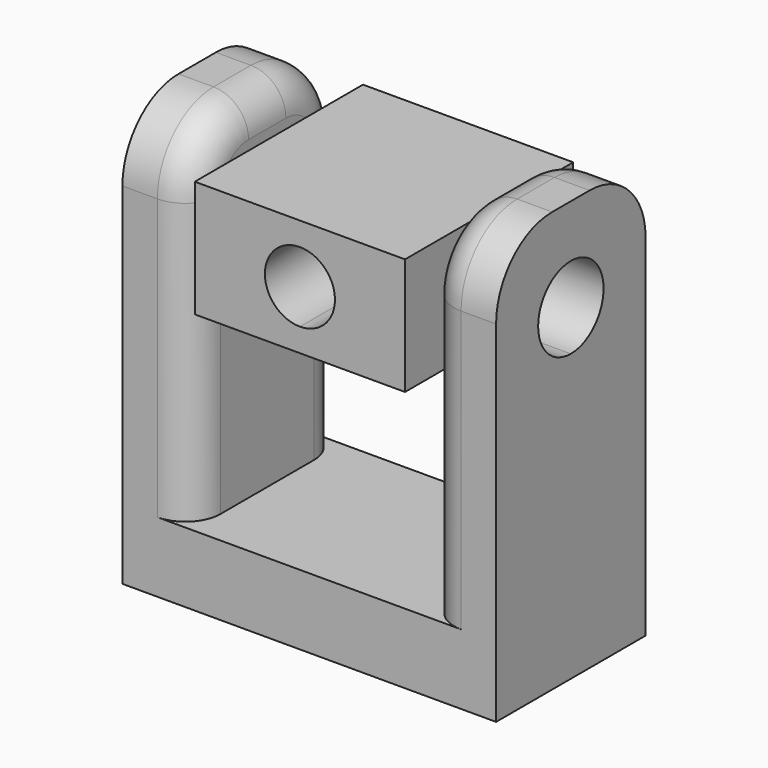
from build123d import *

# Parameters (mm, degrees)
F0_W      = 16
F0_H      = 4
F1_DEPTH  = 3
F2_W      = 3
F2_H      = 8
F3_DEPTH  = 15
F8_R      = 3
F7_W      = 9
F7_H      = 9
F9_DEPTH  = 2.5
F11_DEPTH = 9
F13_DEPTH = 9
F15_DEPTH = 16
F16_R     = 1.5


with BuildPart() as f1:
    # F0 (on Top) → F1 (new body)
    with BuildSketch(Plane.XY):
        with Locations((0, 2)):
            Rectangle(F0_W, F0_H)
        with Locations((0, -2)):
            Rectangle(F0_W, F0_H)
    extrude(amount=F1_DEPTH)

    # F2 (on face) → F3 (join)
    with BuildSketch(Plane.XY.offset(3)):
        Polygon((-5, 4), (-8, 4), (-8, -4), (-5, -4), (-5, 0), align=None)
        with Locations((6.5, 0)):
            Rectangle(F2_W, F2_H)
    extrude(amount=F3_DEPTH)

    # F8
    f8_edges = [f1.edges().sort_by_distance(p)[0] for p in [
        (-6.5, 4, 18),
        (-6.5, -4, 18),
        (6.5, -4, 18),
        (6.5, 4, 18),
    ]]
    fillet(f8_edges, radius=F8_R)

    # F14 (on face) → F15 (cut, through all)
    with BuildSketch(Plane(origin=(-8, 0, 0), x_dir=(0, -1, 0), z_dir=(-1, 0, 0))):
        with BuildLine():
            ThreePointArc((0, 12.25), (1.2374368671, 12.7625631329), (1.75, 14))
            ThreePointArc((1.75, 14), (1.2374368671, 15.2374368671), (0, 15.75))
            Line((0, 15.75), (0, 12.25))
        make_face()
        with BuildLine():
            Line((0, 12.25), (0, 15.75))
            ThreePointArc((0, 15.75), (-1.75, 14), (0, 12.25))
        make_face()
    extrude(amount=-F15_DEPTH, mode=Mode.SUBTRACT)

    # F16
    f16_edges = [f1.edges().sort_by_distance(p)[0] for p in [
        (-5, 0, 18),
        (5, 0, 18),
    ]]
    fillet(f16_edges, radius=F16_R)


with BuildPart() as f9:
    # F7 (on plane+point) → F9 (new body, symmetric)
    with BuildSketch(Plane.XY.offset(14)):
        Rectangle(F7_W, F7_H)
    extrude(amount=F9_DEPTH, both=True)

    # F10 (on face) → F11 (cut, through all)
    with BuildSketch(Plane.XZ.offset(4.5)):
        with BuildLine():
            ThreePointArc((0, 12.5), (1.0606601718, 12.9393398282), (1.5, 14))
            ThreePointArc((1.5, 14), (1.0606601718, 15.0606601718), (0, 15.5))
            Line((0, 15.5), (0, 12.5))
        make_face()
        with BuildLine():
            Line((0, 12.5), (0, 15.5))
            ThreePointArc((0, 15.5), (-1.5, 14), (0, 12.5))
        make_face()
    extrude(amount=-F11_DEPTH, mode=Mode.SUBTRACT)

    # F12 (on face) → F13 (cut, through all)
    with BuildSketch(Plane.YZ.offset(4.5)):
        with BuildLine():
            ThreePointArc((0, 12.5), (1.0606601718, 12.9393398282), (1.5, 14))
            ThreePointArc((1.5, 14), (1.0606601718, 15.0606601718), (0, 15.5))
            Line((0, 15.5), (0, 12.5))
        make_face()
        with BuildLine():
            Line((0, 12.5), (0, 15.5))
            ThreePointArc((0, 15.5), (-1.5, 14), (0, 12.5))
        make_face()
    extrude(amount=-F13_DEPTH, mode=Mode.SUBTRACT)


solid = Compound([f1.part, f9.part])
